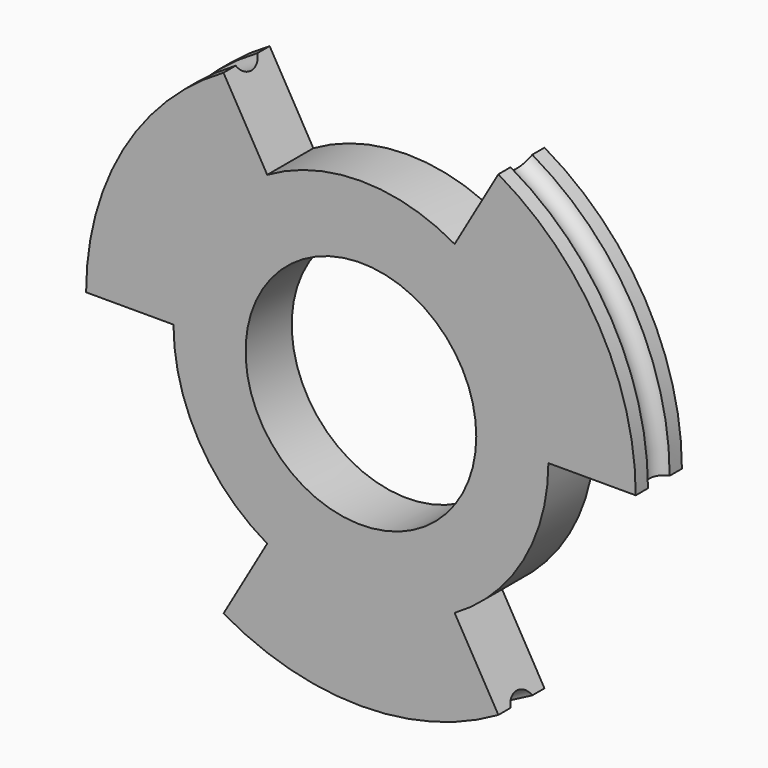
from build123d import *

# Parameters (mm, degrees)
SKETCH005_R          = 9.53
SKETCH005_R_2        = 4
PAD001_DEPTH         = 1
POCKET001_DEPTH      = 55.059013
POCKET001_DEPTH_BACK = 55.059013
POLARPATTERN_COUNT   = 3
SKETCH007_R          = 0.5


with BuildPart() as part:
    # Sketch005 → Pad001 (new body, symmetric)
    with BuildSketch(Plane.XZ):
        Circle(SKETCH005_R)
        Circle(SKETCH005_R_2, mode=Mode.SUBTRACT)
    extrude(amount=PAD001_DEPTH, both=True)

    # Sketch006 → Pocket001 (cut, two sides)
    with BuildSketch(Plane.XZ) as pocket001_sk:
        with BuildLine():
            ThreePointArc((4.765, 8.253222), (0, 9.53), (-4.765, 8.253222))
            Line((-4.765, 8.253222), (-3.25, 5.629165))
            ThreePointArc((3.25, 5.629165), (0, 6.5), (-3.25, 5.629165))
            Line((4.765, 8.253222), (3.25, 5.629165))
        make_face()
    pocket001 = extrude(amount=-POCKET001_DEPTH, mode=Mode.SUBTRACT) + extrude(pocket001_sk.sketch, amount=POCKET001_DEPTH_BACK, mode=Mode.SUBTRACT)

    # PolarPattern: Pocket001 ×3 about axis
    polarpattern_axis = Axis((0, 0, 0), (0, -1, 0))
    for i in range(1, POLARPATTERN_COUNT):
        add(pocket001.rotate(polarpattern_axis, i * 360 / POLARPATTERN_COUNT), mode=Mode.SUBTRACT)

    # Sketch007 → Groove001 (revolve, cut)
    with BuildSketch(Plane.YZ):
        with Locations((0, 9.7)):
            Circle(SKETCH007_R)
    revolve(axis=Axis((0, 0, 0), (0, 1, 0)), mode=Mode.SUBTRACT)


solid = part.part
